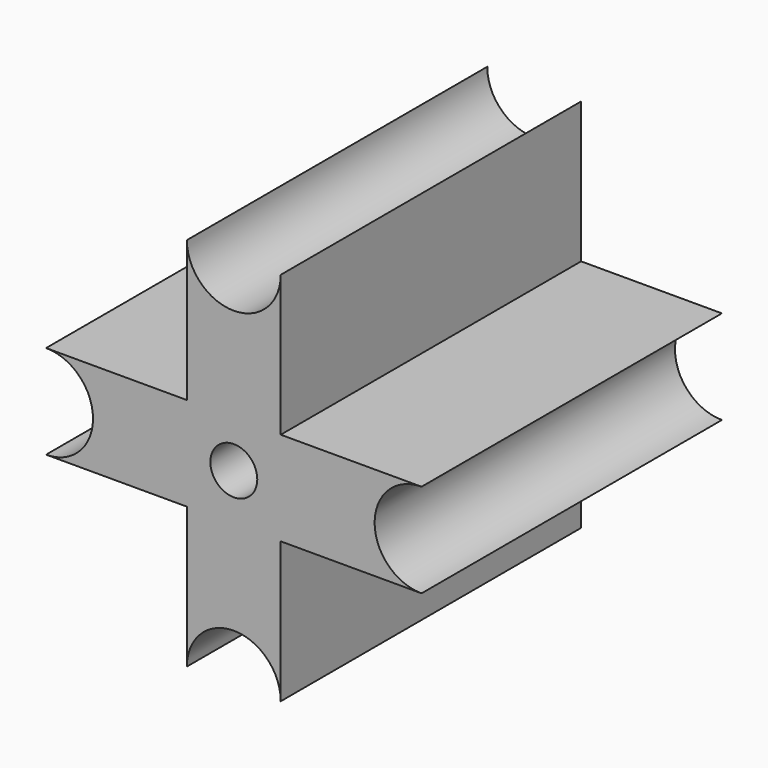
from build123d import *

# Parameters (mm, degrees)
F0_R     = 6.35
F1_DEPTH = 101.6


with BuildPart() as f1:
    # F0 (on Front) → F1 (new body)
    with BuildSketch(Plane.XZ):
        with BuildLine():
            Line((-12.7, 50.803836), (-12.7, 12.703836))
            Line((-12.7, 12.703836), (-50.8, 12.703836))
            ThreePointArc((-50.8, 12.703836), (-38.1, 0.003836), (-50.8, -12.696164))
            Line((-50.8, -12.696164), (-12.7, -12.696164))
            Line((-12.7, -12.696164), (-12.7, -50.796164))
            ThreePointArc((-12.7, -50.796164), (0, -38.096164), (12.7, -50.796164))
            Line((12.7, -50.796164), (12.7, -12.696164))
            Line((12.7, -12.696164), (50.8, -12.696164))
            ThreePointArc((50.8, -12.696164), (38.1, 0.003836), (50.8, 12.703836))
            Line((50.8, 12.703836), (12.7, 12.703836))
            Line((12.7, 12.703836), (12.7, 50.803836))
            ThreePointArc((12.7, 50.803836), (0, 38.103836), (-12.7, 50.803836))
        make_face()
        Circle(F0_R, mode=Mode.SUBTRACT)
    extrude(amount=F1_DEPTH)


solid = f1.part
